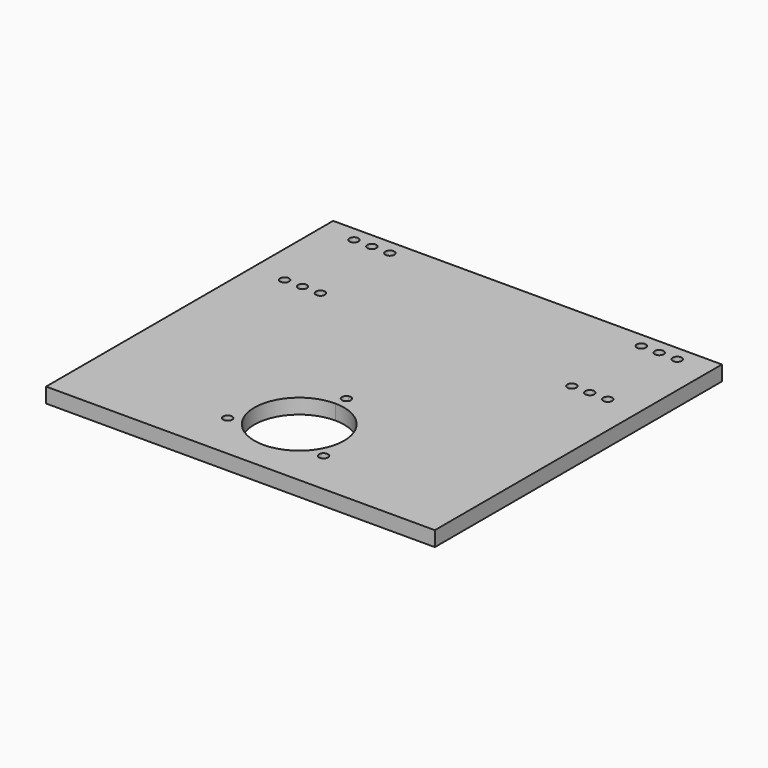
from build123d import *

# Parameters (mm, degrees)
F0_R     = 1.5
F0_W     = 65
F0_H     = 59.651572
F1_DEPTH = 5


with BuildPart() as f1:
    # F0 (on Top) → F1 (new body)
    with BuildSketch(Plane.XY):
        with BuildLine():
            Line((5.892689, 0), (-59.107311, 0))
            Line((-59.107311, 0), (-59.107311, -60.348428))
            Line((-59.107311, -60.348428), (5.892689, -60.348428))
            Line((5.892689, -60.348428), (5.892689, -50.649721))
            ThreePointArc((5.892689, -50.649721), (-9.211324, -35.650082), (5.892689, -20.650443))
            Line((5.892689, -20.650443), (5.892689, -18.074285))
            ThreePointArc((5.892689, -18.074285), (4.891486, -16.659647), (5.892689, -15.245008))
            Line((5.892689, -15.245008), (5.892689, 0))
        make_face()
        with Locations((-10.958927, -44.623251)):
            Circle(F0_R, mode=Mode.SUBTRACT)
        with Locations((-26.607311, 29.825786)):
            Rectangle(F0_W, F0_H)
        with Locations((-48.146435, 25.644738)):
            Circle(F0_R, mode=Mode.SUBTRACT)
        with Locations((-42.146435, 25.644738)):
            Circle(F0_R, mode=Mode.SUBTRACT)
        with Locations((-36.146435, 25.644738)):
            Circle(F0_R, mode=Mode.SUBTRACT)
        with Locations((-48.146435, 54.644738)):
            Circle(F0_R, mode=Mode.SUBTRACT)
        with Locations((-42.146435, 54.644738)):
            Circle(F0_R, mode=Mode.SUBTRACT)
        with Locations((-36.146435, 54.644738)):
            Circle(F0_R, mode=Mode.SUBTRACT)
        with Locations((38.392689, 29.825786)):
            Rectangle(F0_W, F0_H)
        with Locations((47.931814, 25.644738)):
            Circle(F0_R, mode=Mode.SUBTRACT)
        with Locations((53.931814, 25.644738)):
            Circle(F0_R, mode=Mode.SUBTRACT)
        with Locations((59.931814, 25.644738)):
            Circle(F0_R, mode=Mode.SUBTRACT)
        with Locations((47.931814, 54.644738)):
            Circle(F0_R, mode=Mode.SUBTRACT)
        with Locations((53.931814, 54.644738)):
            Circle(F0_R, mode=Mode.SUBTRACT)
        with Locations((59.931814, 54.644738)):
            Circle(F0_R, mode=Mode.SUBTRACT)
        with BuildLine():
            Line((70.892689, 0), (5.892689, 0))
            Line((5.892689, 0), (5.892689, -15.245008))
            ThreePointArc((5.892689, -15.245008), (7.258032, -15.435271), (7.891486, -16.659647))
            ThreePointArc((7.891486, -16.659647), (7.258032, -17.884023), (5.892689, -18.074285))
            Line((5.892689, -18.074285), (5.892689, -20.650443))
            ThreePointArc((5.892689, -20.650443), (16.431989, -25.080318), (20.788676, -35.650082))
            ThreePointArc((20.788676, -35.650082), (16.431989, -46.219846), (5.892689, -50.649721))
            Line((5.892689, -50.649721), (5.892689, -60.348428))
            Line((5.892689, -60.348428), (70.892689, -60.348428))
            Line((70.892689, -60.348428), (70.892689, 0))
        make_face()
        with Locations((21.933471, -45.667347)):
            Circle(F0_R, mode=Mode.SUBTRACT)
    extrude(amount=F1_DEPTH)


solid = f1.part
